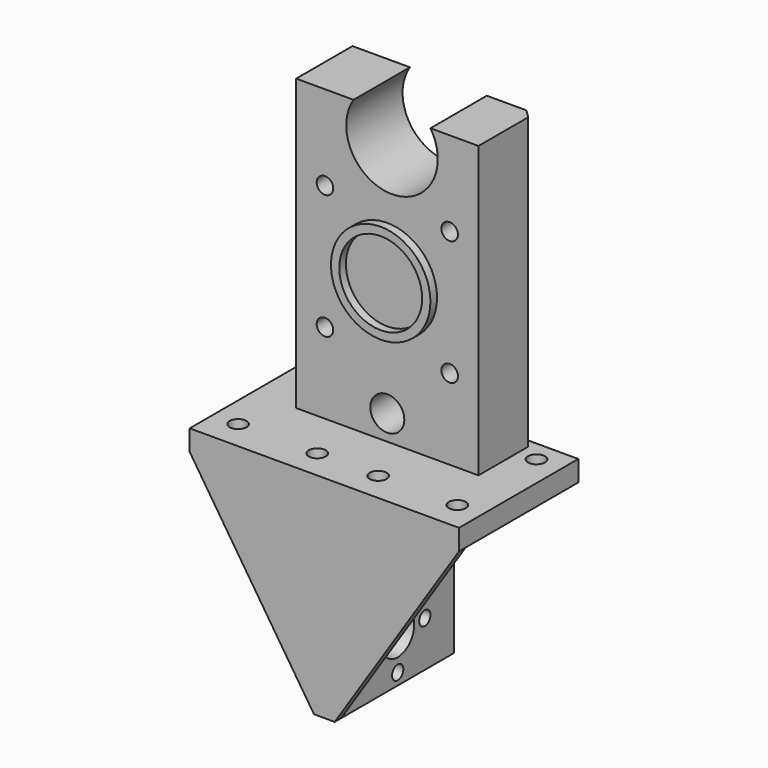
from build123d import *

# Parameters (mm, degrees)
PAD_DEPTH       = 2
BOX002_W        = 44
BOX002_H        = 17
BOX002_DEPTH    = 78
SKETCH003_R     = 4.1
SKETCH003_R_2   = 2
SKETCH003_W     = 49.28004
SKETCH003_H     = 11.88092
POCKET003_DEPTH = 17.001
BOX001_W        = 65
BOX001_H        = 34
BOX001_DEPTH    = 5
BOX_W           = 5
BOX_H           = 34
BOX_DEPTH       = 46
SKETCH_R        = 2.05
POCKET_DEPTH    = 5
SKETCH001_R     = 5
SKETCH001_R_2   = 1.7
POCKET001_DEPTH = 5
SKETCH002_R     = 4.5
POCKET002_DEPTH = 5
SKETCH007_R     = 11.05
POCKET004_DEPTH = 17.001
SKETCH008_R     = 12
SKETCH008_R_2   = 10
PAD001_DEPTH    = 2
CHAMFER_SIZE    = 1
CHAMFER001_SIZE = 1.999


with BuildPart() as pad:
    # Sketch006 → Pad (new body)
    with BuildSketch(Plane.XZ.offset(2)):
        Polygon((-30, 51), (35, 51), (35, 46), (5, 0), (0, 0), (-30, 46), align=None)
    extrude(amount=PAD_DEPTH)


with BuildPart() as pocket003:
    # Box002 → Box002 (new body)
    with BuildSketch(Plane(origin=(-19.5, 15, 51), x_dir=(1, 0, 0), z_dir=(0, 0, 1))):
        with Locations((22, 8.5)):
            Rectangle(BOX002_W, BOX002_H)
    extrude(amount=BOX002_DEPTH)

    # Sketch003 → Pocket003 (cut, through all)
    with BuildSketch(Plane(origin=(-19.5, 15, 51), x_dir=(1, 0, 0), z_dir=(0, -1, 0))):
        with Locations((22, 6)):
            Circle(SKETCH003_R)
        with Locations((22, 63)):
            Circle(SKETCH003_R)
        with Locations((6.95, 19.45)):
            Circle(SKETCH003_R_2)
        with Locations((37.05, 19.45)):
            Circle(SKETCH003_R_2)
        with Locations((6.95, 49.55)):
            Circle(SKETCH003_R_2)
        with Locations((37.05, 49.55)):
            Circle(SKETCH003_R_2)
        with Locations((21.985447, 75.94046)):
            Rectangle(SKETCH003_W, SKETCH003_H)
    extrude(amount=-POCKET003_DEPTH, mode=Mode.SUBTRACT)


with BuildPart() as cubo001:
    # Box001 → Box001 (new body)
    with BuildSketch(Plane(origin=(-30, -2, 46), x_dir=(1, 0, 0), z_dir=(0, 0, 1))):
        with Locations((32.5, 17)):
            Rectangle(BOX001_W, BOX001_H)
    extrude(amount=BOX001_DEPTH)


with BuildPart() as chamfer001:
    # Box → Box (new body)
    with BuildSketch(Plane(origin=(0, -2, 0), x_dir=(1, 0, 0), z_dir=(0, 0, 1))):
        with Locations((2.5, 17)):
            Rectangle(BOX_W, BOX_H)
    extrude(amount=BOX_DEPTH)

    # Fusion: union Cubo001
    add(cubo001.part)

    # Sketch → Pocket (cut)
    with BuildSketch(Plane.XY.offset(51)):
        with Locations((-36.05, -7.05)):
            Circle(SKETCH_R)
        with Locations((28.95, 3.05)):
            Circle(SKETCH_R)
        with Locations((-55.15, -7.05)):
            Circle(SKETCH_R)
        with Locations((9.85, 3.05)):
            Circle(SKETCH_R)
        with Locations((-4.85, 3.05)):
            Circle(SKETCH_R)
        with Locations((-23.95, 3.05)):
            Circle(SKETCH_R)
        with Locations((-23.95, 26.95)):
            Circle(SKETCH_R)
        with Locations((-4.85, 26.95)):
            Circle(SKETCH_R)
        with Locations((9.85, 26.95)):
            Circle(SKETCH_R)
        with Locations((28.95, 26.95)):
            Circle(SKETCH_R)
    extrude(amount=-POCKET_DEPTH, mode=Mode.SUBTRACT)

    # Sketch001 → Pocket001 (cut)
    with BuildSketch(Plane.YZ.offset(5)):
        with Locations((15, 11)):
            Circle(SKETCH001_R)
        with Locations((15, 19.2)):
            Circle(SKETCH001_R_2)
        with Locations((23.2, 11)):
            Circle(SKETCH001_R_2)
        with Locations((15, 2.8)):
            Circle(SKETCH001_R_2)
        with Locations((6.8, 11)):
            Circle(SKETCH001_R_2)
    extrude(amount=-POCKET001_DEPTH, mode=Mode.SUBTRACT)

    # Sketch002 → Pocket002 (cut)
    with BuildSketch(Plane.YZ.offset(5)):
        with Locations((15, 34.8)):
            Circle(SKETCH002_R)
    extrude(amount=-POCKET002_DEPTH, mode=Mode.SUBTRACT)

    # Fusion001: union Pad, Pocket003
    add(pad.part)
    add(pocket003.part)

    # Sketch007 → Pocket004 (cut, through all)
    with BuildSketch(Plane.XZ.offset(-15)):
        with Locations((3.631613, 115.011309)):
            Circle(SKETCH007_R)
    extrude(amount=-POCKET004_DEPTH, mode=Mode.SUBTRACT)

    # Sketch008 → Pad001 (new body)
    with BuildSketch(Plane.XZ.offset(-15)):
        with Locations((2.5, 85.5)):
            Circle(SKETCH008_R)
        with Locations((2.5, 85.5)):
            Circle(SKETCH008_R_2, mode=Mode.SUBTRACT)
    extrude(amount=PAD001_DEPTH)

    # Chamfer
    chamfer_edges = [chamfer001.edges().sort_by_distance(p)[0] for p in [
        (-30, 32, 48.5),
    ]]
    chamfer(chamfer_edges, length=CHAMFER_SIZE)

    # Chamfer001
    chamfer001_edges = [chamfer001.edges().sort_by_distance(p)[0] for p in [
        (24.5, 32, 86),
    ]]
    chamfer(chamfer001_edges, length=CHAMFER001_SIZE)


solid = chamfer001.part
